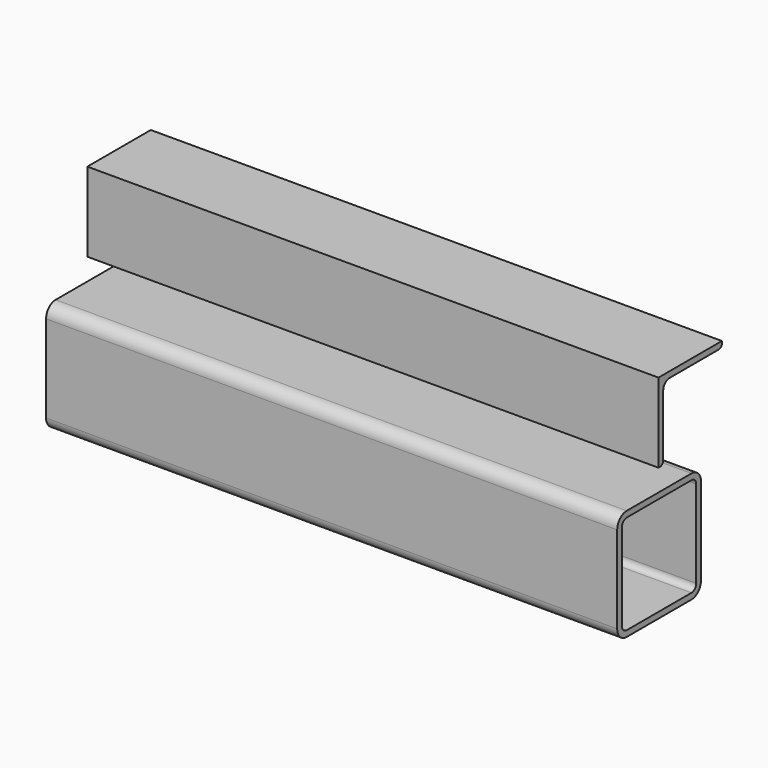
from build123d import *

# Parameters (mm, degrees)
F1_DEPTH = 228.6
F3_DEPTH = 228.6


with BuildPart() as f1:
    # F0 (on Right) → F1 (new body, symmetric)
    with BuildSketch(Plane.YZ):
        with BuildLine():
            Line((74.295, 0), (9.525, 0))
            ThreePointArc((9.525, 0), (2.789808, -2.789808), (0, -9.525))
            Line((0, -9.525), (0, -79.375))
            ThreePointArc((0, -79.375), (2.789808, -86.110192), (9.525, -88.9))
            Line((9.525, -88.9), (74.295, -88.9))
            ThreePointArc((74.295, -88.9), (81.030192, -86.110192), (83.82, -79.375))
            Line((83.82, -79.375), (83.82, -9.525))
            ThreePointArc((83.82, -9.525), (81.030192, -2.789808), (74.295, 0))
        make_face()
        with BuildLine():
            ThreePointArc((4.7625, -9.525), (6.157404, -6.157404), (9.525, -4.7625))
            Line((9.525, -4.7625), (74.295, -4.7625))
            ThreePointArc((74.295, -4.7625), (77.662596, -6.157404), (79.0575, -9.525))
            Line((79.0575, -9.525), (79.0575, -79.375))
            ThreePointArc((79.0575, -79.375), (77.662596, -82.742596), (74.295, -84.1375))
            Line((74.295, -84.1375), (9.525, -84.1375))
            ThreePointArc((9.525, -84.1375), (6.157404, -82.742596), (4.7625, -79.375))
            Line((4.7625, -79.375), (4.7625, -9.525))
        make_face(mode=Mode.SUBTRACT)
    extrude(amount=F1_DEPTH, both=True)


with BuildPart() as f3:
    # F2 (on Right) → F3 (new body, symmetric)
    with BuildSketch(Plane.YZ):
        with BuildLine():
            Line((41.275, 80.9625), (41.275, 17.4625))
            Line((41.275, 17.4625), (42.8625, 17.4625))
            ThreePointArc((42.8625, 17.4625), (45.107564, 18.392436), (46.0375, 20.6375))
            Line((46.0375, 20.6375), (46.0375, 69.85))
            ThreePointArc((46.0375, 69.85), (47.897372, 74.340128), (52.3875, 76.2))
            Line((52.3875, 76.2), (101.6, 76.2))
            ThreePointArc((101.6, 76.2), (103.845064, 77.129936), (104.775, 79.375))
            Line((104.775, 79.375), (104.775, 80.9625))
            Line((104.775, 80.9625), (41.275, 80.9625))
        make_face()
    extrude(amount=F3_DEPTH, both=True)


solid = Compound([f1.part, f3.part])
